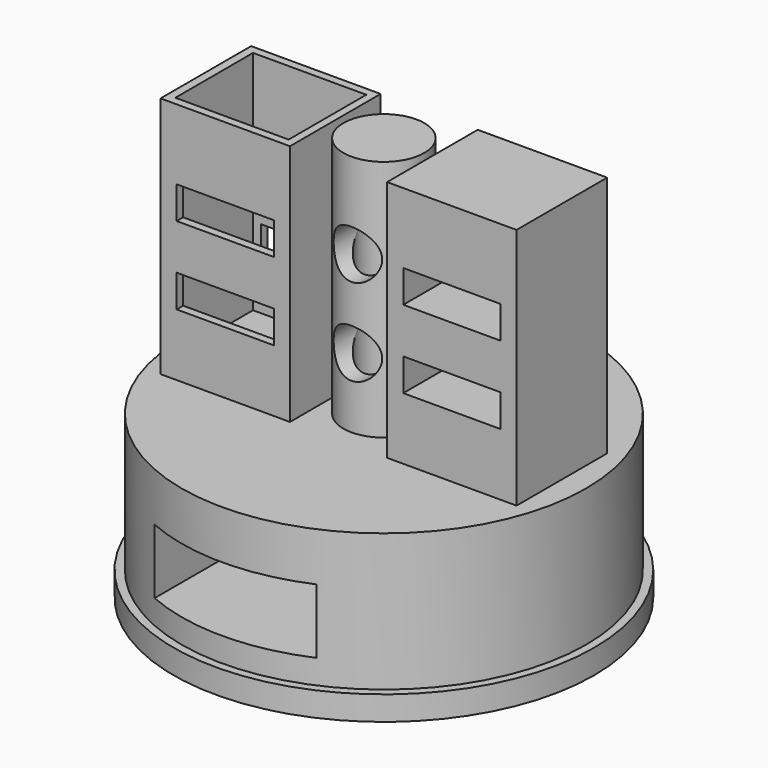
from build123d import *

# Parameters (mm, degrees)
F0_R      = 13
F2_DEPTH  = 1.5
F1_R      = 12.5
F3_DEPTH  = 10
F4_R      = 2.5
F5_DEPTH  = 25
F7_START  = 4
F6_R      = 1.5
F7_DEPTH  = 19
F8_R      = 1.5
F9_DEPTH  = 5.1
F10_W     = 8
F10_H     = 7
F11_DEPTH = 25
F13_W     = 7
F13_H     = 6
F14_DEPTH = 14
F16_START = 3
F15_W     = 8
F15_H     = 7
F16_DEPTH = 22
F18_START = 2.8
F17_W     = 8
F17_H     = 7
F18_DEPTH = 22.2
F19_W     = 10
F19_H     = 4
F20_DEPTH = 14
F21_W     = 10
F21_H     = 2
F22_DEPTH = 3.5
F23_R     = 3
F24_DEPTH = 5.2
F26_W     = 6
F26_H     = 2
F27_DEPTH = 9


with BuildPart() as f2:
    # F0 (on Top) → F2 (new body)
    with BuildSketch(Plane.XY):
        Circle(F0_R)
    extrude(amount=F2_DEPTH)

    # F1 (on Top) → F3 (join)
    with BuildSketch(Plane.XY):
        Circle(F1_R)
    extrude(amount=F3_DEPTH)

    # F4 (on Top) → F5 (join)
    with BuildSketch(Plane.XY):
        Circle(F4_R)
    extrude(amount=F5_DEPTH)

    # F6 (on Top) → F7 (cut)
    with BuildSketch(Plane.XY.offset(F7_START)):
        Circle(F6_R)
    extrude(amount=F7_DEPTH, mode=Mode.SUBTRACT)

    # F8 (on Front) → F9 (cut, symmetric)
    with BuildSketch(Plane.XZ):
        with Locations((0, 19.687499851)):
            Circle(F8_R)
        with Locations((0, 14.3053065985)):
            Circle(F8_R)
    extrude(amount=F9_DEPTH, both=True, mode=Mode.SUBTRACT)

    # F10 (on Top) → F11 (join)
    with BuildSketch(Plane.XY):
        with Locations((-7, 0)):
            Rectangle(F10_W, F10_H)
    extrude(amount=F11_DEPTH)

    # F13 (on offset) → F14 (cut)
    with BuildSketch(Plane.XY.offset(25)):
        with Locations((-6.9841630757, 0)):
            Rectangle(F13_W, F13_H)
    extrude(amount=-F14_DEPTH, mode=Mode.SUBTRACT)

    # F15 (on Top) → F16 (cut)
    with BuildSketch(Plane.XY.offset(F16_START)):
        with Locations((7, 0)):
            Rectangle(F15_W, F15_H)
    extrude(amount=F16_DEPTH, mode=Mode.SUBTRACT)


with BuildPart() as f18:
    # F17 (on Top) → F18 (new body)
    with BuildSketch(Plane.XY.offset(F18_START)):
        with Locations((7, 0)):
            Rectangle(F17_W, F17_H)
    extrude(amount=F18_DEPTH)


with BuildPart() as f20_tool:
    # F19 (on Front) → F20 (new body, symmetric)
    with BuildSketch(Plane.XZ):
        with Locations((0, 5)):
            Rectangle(F19_W, F19_H)
    extrude(amount=F20_DEPTH, both=True)


with BuildPart() as f2_1:
    add(f2.part)

    # F20: cut by f20_tool
    add(f20_tool.part, mode=Mode.SUBTRACT)


with BuildPart() as f18_1:
    add(f18.part)

    # F20: cut by f20_tool
    add(f20_tool.part, mode=Mode.SUBTRACT)

    # F21 (on Front) → F22 (join, symmetric)
    with BuildSketch(Plane.XZ):
        with Locations((0, 3.8880447391)):
            Rectangle(F21_W, F21_H)
    extrude(amount=F22_DEPTH, both=True)


with BuildPart() as f24_tool:
    # F23 (on Top) → F24 (new body)
    with BuildSketch(Plane.XY):
        Circle(F23_R)
    extrude(amount=F24_DEPTH)


with BuildPart() as f2_2:
    add(f2_1.part)

    # F24: cut by f24_tool
    add(f24_tool.part, mode=Mode.SUBTRACT)


with BuildPart() as f18_2:
    add(f18_1.part)

    # F24: cut by f24_tool
    add(f24_tool.part, mode=Mode.SUBTRACT)


with BuildPart() as f27_tool:
    # F26 (on offset) → F27 (new body)
    with BuildSketch(Plane.XZ.offset(4.5)):
        with Locations((-7, 19.6511967331)):
            Rectangle(F26_W, F26_H)
        with Locations((-7, 14.8438874856)):
            Rectangle(F26_W, F26_H)
        with Locations((7, 19.6511967331)):
            Rectangle(F26_W, F26_H)
        with Locations((7, 14.8438874856)):
            Rectangle(F26_W, F26_H)
    extrude(amount=-F27_DEPTH)


with BuildPart() as f2_3:
    add(f2_2.part)

    # F27: cut by f27_tool
    add(f27_tool.part, mode=Mode.SUBTRACT)


with BuildPart() as f18_3:
    add(f18_2.part)

    # F27: cut by f27_tool
    add(f27_tool.part, mode=Mode.SUBTRACT)


solid = Compound([f2_3.part, f18_3.part])
